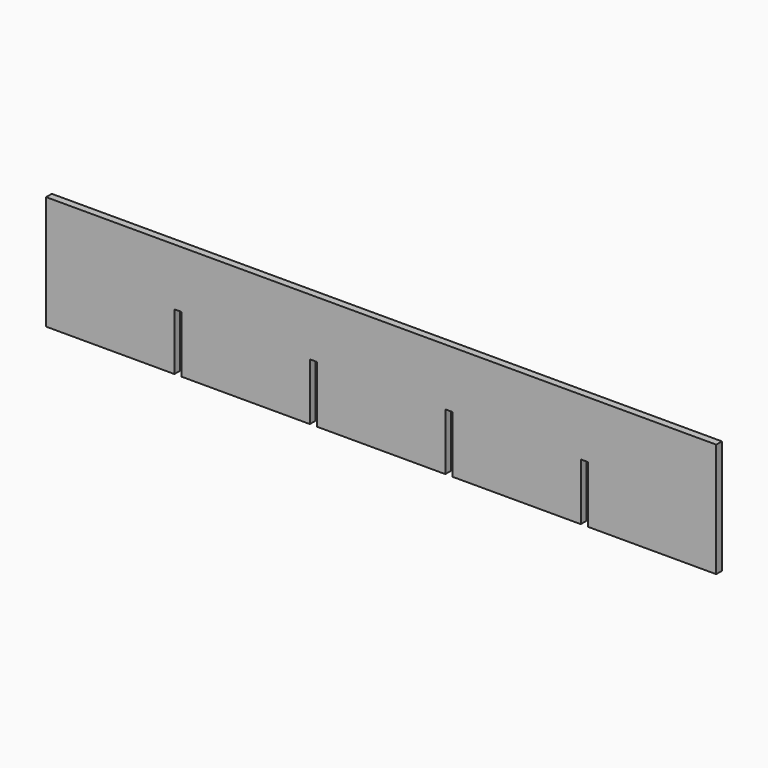
from build123d import *

# Parameters (mm, degrees)
F0_W     = 298.45
F0_H     = 50.8
F1_DEPTH = 3.175
F2_W     = 3.175
F2_H     = 25.4
F3_DEPTH = 25.4


with BuildPart() as f1:
    # F0 (on Front) → F1 (new body)
    with BuildSketch(Plane.XZ):
        with Locations((-2.032003, -3.439659)):
            Rectangle(F0_W, F0_H)
    extrude(amount=F1_DEPTH)

    # F2 (on face) → F3 (cut)
    with BuildSketch(Plane.XZ.offset(3.175)):
        with Locations((-92.519503, -16.139659)):
            Rectangle(F2_W, F2_H)
        with Locations((-32.194503, -16.139659)):
            Rectangle(F2_W, F2_H)
        with Locations((28.130497, -16.139659)):
            Rectangle(F2_W, F2_H)
        with Locations((88.455497, -16.139659)):
            Rectangle(F2_W, F2_H)
    extrude(amount=-F3_DEPTH, mode=Mode.SUBTRACT)


solid = f1.part
